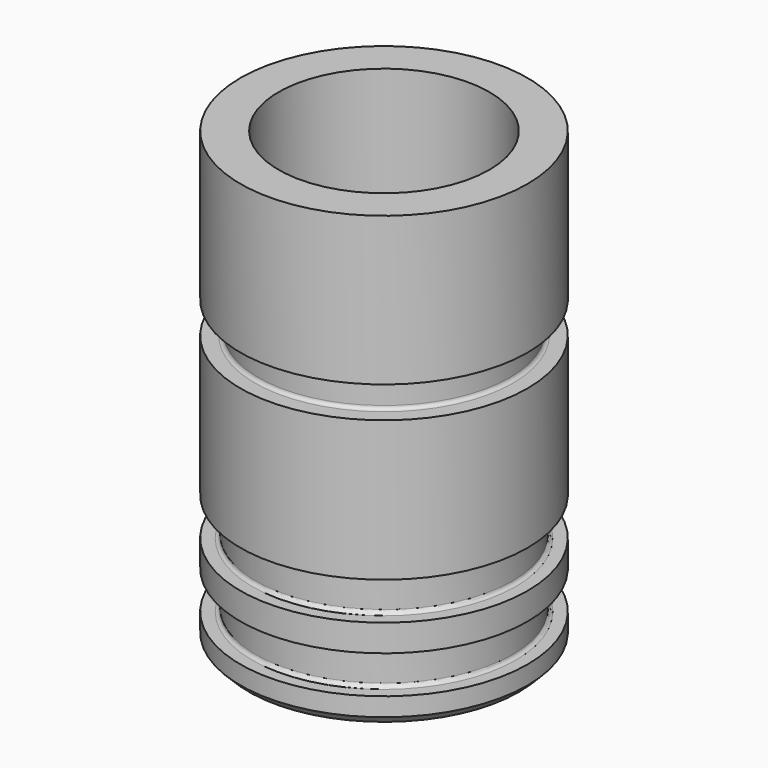
from build123d import *

# Parameters (mm, degrees)
F0_R      = 15.95
F1_DEPTH  = 50
F2_W      = 1.7
F2_H      = 4.2
F5_R      = 0.4
F6_W      = 2
F6_H      = 3.5
F8_R      = 0.4
F9_R      = 11.707813
F10_DEPTH = 50.001


with BuildPart() as f1:
    # F0 (on Top) → F1 (new body)
    with BuildSketch(Plane.XY):
        Circle(F0_R)
    extrude(amount=F1_DEPTH)

    # F2 (on Front) → F4 (revolve, cut)
    with BuildSketch(Plane.XZ):
        with Locations((15.1, 5.1)):
            Rectangle(F2_W, F2_H)
        with Locations((15.1, 12.3)):
            Rectangle(F2_W, F2_H)
    revolve(axis=Axis((0, 0, 32.886785), (0, 0, -1)), mode=Mode.SUBTRACT)

    # F5
    f5_edges = [f1.edges().sort_by_distance(p)[0] for p in [
        (-14.25, 0, 3),
        (-14.25, 0, 7.2),
        (-14.25, 0, 14.4),
        (-14.25, 0, 10.2),
    ]]
    fillet(f5_edges, radius=F5_R)

    # F6 (on Front) → F7 (revolve, cut)
    with BuildSketch(Plane.XZ):
        with Locations((14.95, 31.75)):
            Rectangle(F6_W, F6_H)
    revolve(axis=Axis((0, 0, 0), (0, 0, -1)), mode=Mode.SUBTRACT)

    # F8
    f8_edges = [f1.edges().sort_by_distance(p)[0] for p in [
        (-13.95, 0, 30),
        (-13.95, 0, 33.5),
    ]]
    fillet(f8_edges, radius=F8_R)

    # F9 (on face) → F10 (cut, through all)
    with BuildSketch(Plane.XY.offset(50)):
        Circle(F9_R)
    extrude(amount=-F10_DEPTH, mode=Mode.SUBTRACT)

    # F11 (on Front) → F12 (revolve, cut)
    with BuildSketch(Plane.XZ):
        Polygon((15, 0), (15.95, 0), (15.95, 0.95), align=None)
    revolve(axis=Axis((0, 0, 50), (0, 0, 1)), mode=Mode.SUBTRACT)


solid = f1.part
